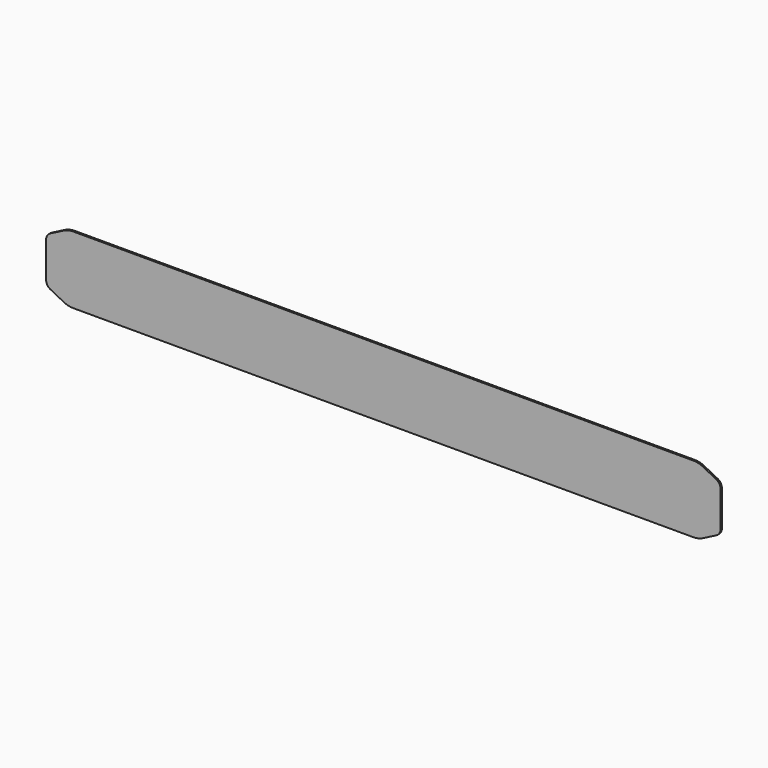
from build123d import *

# Parameters (mm, degrees)
F1_DEPTH = 1.5


with BuildPart() as f1:
    # F0 (on Front) → F1 (new body)
    with BuildSketch(Plane.XZ):
        with BuildLine():
            ThreePointArc((-276, 30), (-280.202017, 29.502659), (-284.171829, 28.038117))
            Line((-284.171829, 28.038117), (-296.177933, 21.920702))
            ThreePointArc((-296.177933, 21.920702), (-298.968481, 19.341146), (-300, 15.683656))
            Line((-300, 15.683656), (-300, 0))
            Line((-300, 0), (-300, -15.683656))
            ThreePointArc((-300, -15.683656), (-298.968481, -19.341146), (-296.177933, -21.920702))
            Line((-296.177933, -21.920702), (-284.171829, -28.038117))
            ThreePointArc((-284.171829, -28.038117), (-280.202017, -29.502659), (-276, -30))
            Line((-276, -30), (0, -30))
            Line((0, -30), (276, -30))
            ThreePointArc((276, -30), (280.202017, -29.502659), (284.171829, -28.038117))
            Line((284.171829, -28.038117), (296.177933, -21.920702))
            ThreePointArc((296.177933, -21.920702), (298.968481, -19.341146), (300, -15.683656))
            Line((300, -15.683656), (300, 0))
            Line((300, 0), (300, 15.683656))
            ThreePointArc((300, 15.683656), (298.968481, 19.341146), (296.177933, 21.920702))
            Line((296.177933, 21.920702), (284.171829, 28.038117))
            ThreePointArc((284.171829, 28.038117), (280.202017, 29.502659), (276, 30))
            Line((276, 30), (0, 30))
            Line((0, 30), (-276, 30))
        make_face()
    extrude(amount=F1_DEPTH)


solid = f1.part
